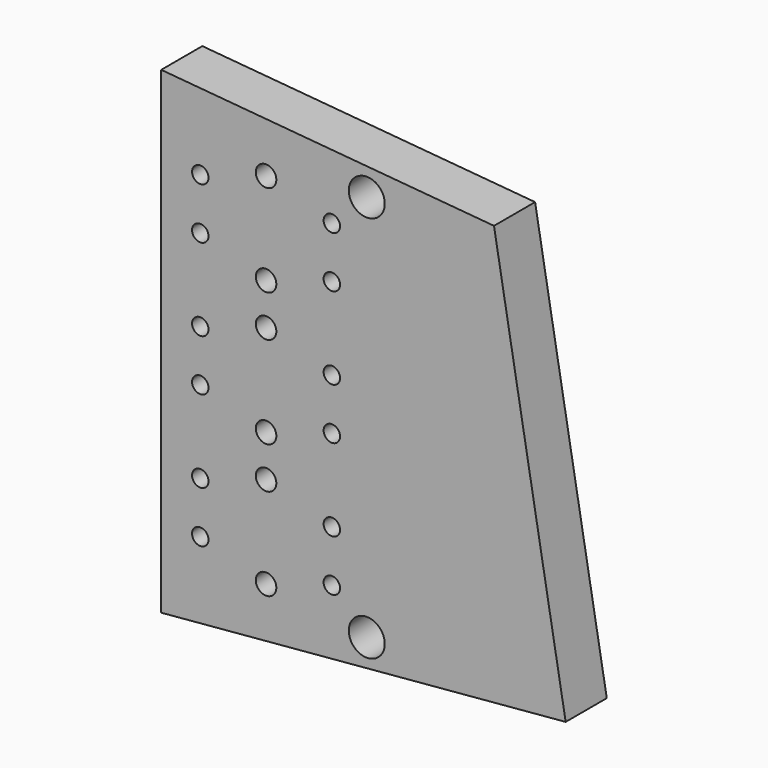
from build123d import *

# Parameters (mm, degrees)
F1_DEPTH = 5
F3_DEPTH = 2.5
F5_D     = 3.5
F6_D     = 1.6
F7_D     = 2


with BuildPart() as f1:
    # F0 (on Front) → F1 (new body)
    with BuildSketch(Plane.XZ):
        Polygon((32.376328, 43.667438), (0, 46.5), (0, 0), (39.349691, 3.442652), align=None)
    extrude(amount=F1_DEPTH)

    # F2 (on face) → F3 (cut)
    with BuildSketch(Plane(origin=(0, 0, 0), x_dir=(-1, 0, 0), z_dir=(0, 1, 0))):
        Polygon((-3, 40.214615), (-30.344903, 37.822246), (-35.321901, 9.113185), (-3, 6.285385), align=None)
    extrude(amount=-F3_DEPTH, mode=Mode.SUBTRACT)

    # F5 (through all)
    with Locations(Plane.XZ.offset(5)):
        with Locations((20, 4.399773), (20, 42.100227)):
            Hole(F5_D / 2)

    # F6 (through all)
    with Locations(Plane.XZ.offset(5)):
        with Locations((3.8, 7.75), (3.8, 12.75), (3.8, 20.75), (3.8, 25.75), (3.8, 33.75), (3.8, 38.75), (16.6, 38.75), (16.6, 33.75), (16.6, 25.75), (16.6, 20.75), (16.6, 12.75), (16.6, 7.75)):
            Hole(F6_D / 2)

    # F7 (through all)
    with Locations(Plane.XZ.offset(5)):
        with Locations((10.2, 5.775), (10.2, 14.725), (10.2, 18.775), (10.2, 27.725), (10.2, 31.775), (10.2, 40.725)):
            Hole(F7_D / 2)


solid = f1.part
